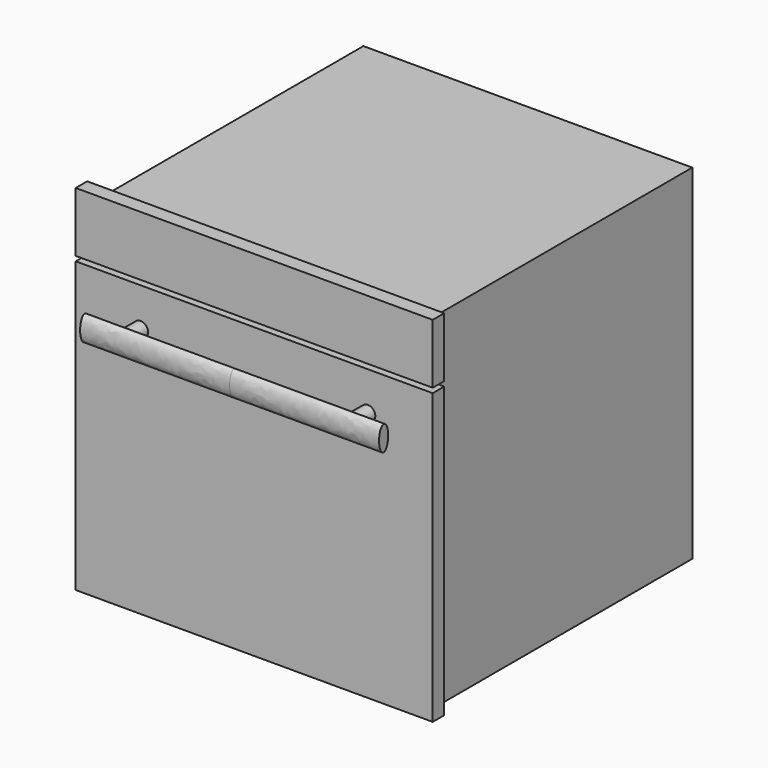
from build123d import *

# Parameters (mm, degrees)
F0_W          = 550
F0_H          = 548
F1_DEPTH      = 576
F2_W          = 597
F2_H          = 100
F2_H_2        = 484
F3_DEPTH      = 24
F4_R          = 12.5
F5_DEPTH      = 35
F7_DEPTH      = 250
F7_DEPTH_BACK = 250


with BuildPart() as f1:
    # F0 (on Top) → F1 (new body)
    with BuildSketch(Plane.XY):
        Rectangle(F0_W, F0_H)
    extrude(amount=F1_DEPTH)


with BuildPart() as f3:
    # F2 (on face) → F3 (new body)
    with BuildSketch(Plane.XZ.offset(274)):
        with Locations((0, 542)):
            Rectangle(F2_W, F2_H)
        with Locations((0, 242)):
            Rectangle(F2_W, F2_H_2)
    extrude(amount=F3_DEPTH)

    # F4 (on face) → F5 (join)
    with BuildSketch(Plane.XZ.offset(298)):
        with Locations((-190, 419)):
            Circle(F4_R)
        with Locations((190, 419)):
            Circle(F4_R)
    extrude(amount=F5_DEPTH)


with BuildPart() as f7:
    # F6 (on Right) → F7 (new body, two sides)
    with BuildSketch(Plane.YZ) as f7_sk:
        with BuildLine():
            add(Edge.make_bspline(
                [(-340, 439.931727), (-356.371177, 439.931727), (-348.185589, 408.534136), (-340, 377.136546), (-331.814411, 408.534136), (-323.628823, 439.931727), (-340, 439.931727)],
                knots=[0, 0, 0, 2.094395, 2.094395, 4.18879, 4.18879, 6.283185, 6.283185, 6.283185], degree=2, weights=[1, 0.5, 1, 0.5, 1, 0.5, 1]))
        make_face()
    extrude(amount=F7_DEPTH)
    extrude(f7_sk.sketch, amount=-F7_DEPTH_BACK)


solid = Compound([f1.part, f3.part, f7.part])
